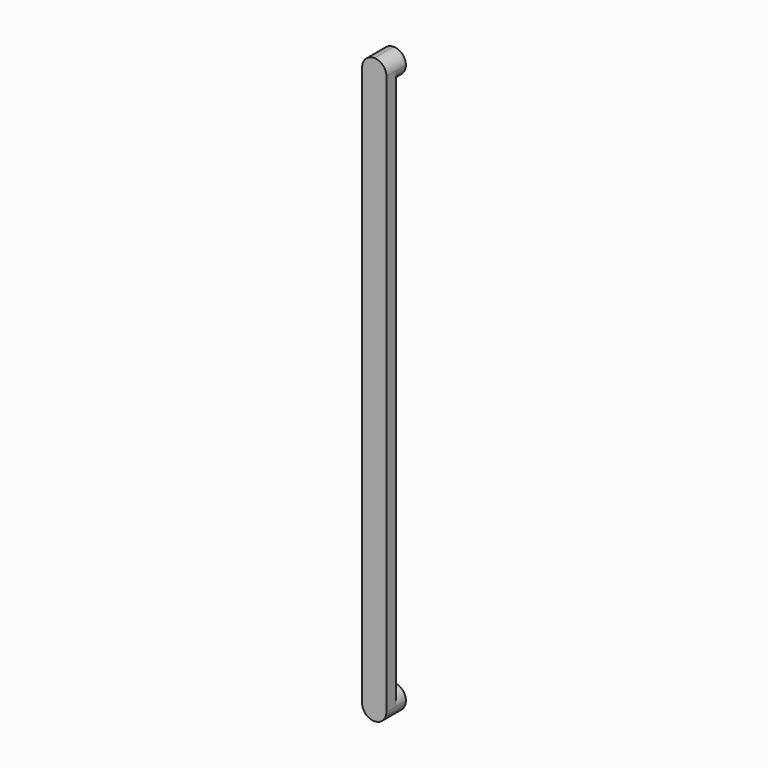
from build123d import *

# Parameters (mm, degrees)
F1_DEPTH = 25.4
F2_DEPTH = 50.8


with BuildPart() as f1:
    # F0 (on Front) → F1 (new body)
    with BuildSketch(Plane.XZ):
        with BuildLine():
            Line((25.4, -584.2), (25.4, 584.2))
            ThreePointArc((25.4, 584.2), (0, 558.8), (-25.4, 584.2))
            Line((-25.4, 584.2), (-25.4, -584.2000000301))
            ThreePointArc((-25.4, -584.2000000301), (-1.51e-08, -558.8), (25.4, -584.2))
        make_face()
    extrude(amount=-F1_DEPTH)

    # F0 (on Front) → F2 (join)
    with BuildSketch(Plane.XZ):
        with BuildLine():
            ThreePointArc((25.4, 584.2), (17.9605121413, 602.160512343), (-2.853e-07, 609.6))
            ThreePointArc((-2.853e-07, 609.6), (-17.960512343, 602.1605121413), (-25.4, 584.2))
            ThreePointArc((-25.4, 584.2), (0, 558.8), (25.4, 584.2))
        make_face()
        with BuildLine():
            ThreePointArc((4.74e-07, -609.6), (17.9605124097, -602.1605120745), (25.4, -584.2))
            ThreePointArc((25.4, -584.2), (-1.51e-08, -558.8), (-25.4, -584.2000000301))
            ThreePointArc((-25.4, -584.2000000301), (-17.9605120639, -602.1605124204), (4.74e-07, -609.6))
        make_face()
    extrude(amount=-F2_DEPTH)


solid = f1.part
